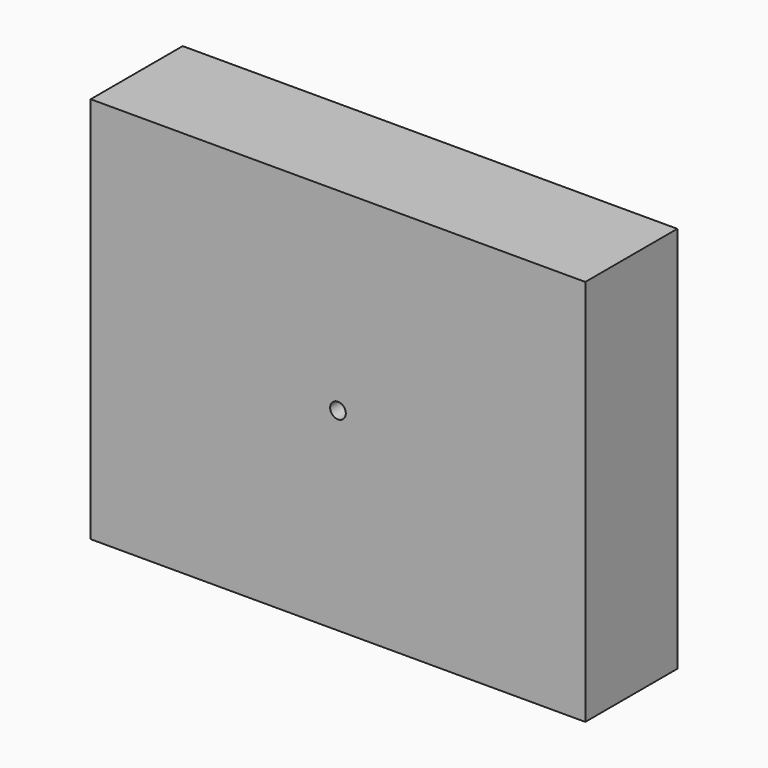
from build123d import *

# Parameters (mm, degrees)
F0_W     = 109.2003360391
F0_H     = 85.5156779289
F1_DEPTH = 25.4
F3_D     = 3.4544
F3_DEPTH = 11.90625
F3_TIP   = 1.0378064612


with BuildPart() as f1:
    # F0 (on Front) → F1 (new body)
    with BuildSketch(Plane.XZ):
        Rectangle(F0_W, F0_H)
    extrude(amount=F1_DEPTH)

    # F3
    with Locations(Plane.XZ.offset(25.4)):
        with Locations((0, 0)):
            Hole(F3_D / 2, depth=F3_DEPTH)
            with Locations((0, 0, -(F3_DEPTH + F3_TIP / 2))):  # 118° drill point
                Cone(0, F3_D / 2, F3_TIP, mode=Mode.SUBTRACT)


solid = f1.part
